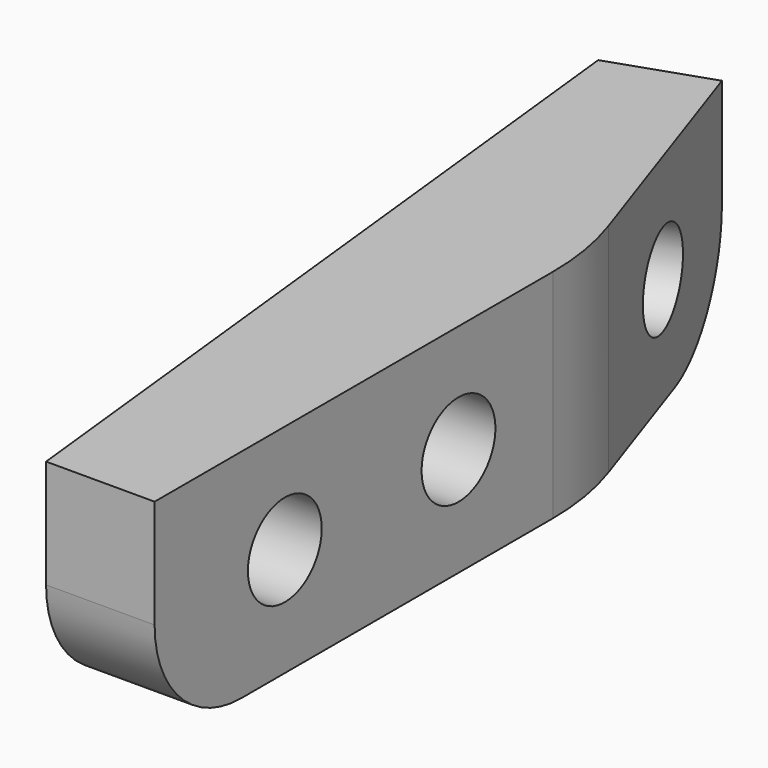
from build123d import *

# Parameters (mm, degrees)
F0_W     = 2
F0_H     = 10
F1_DEPTH = 4
F3_DEPTH = 1
F4_R     = 0.85
F5_DEPTH = 25
F6_R     = 0.85
F7_DEPTH = 25
F8_R     = 5
F9_R     = 5
F10_R    = 2


with BuildPart() as f1:
    # F0 (on Top) → F1 (new body)
    with BuildSketch(Plane.XY):
        Polygon((-14.343983, 1.605531), (-12.731962, -3.12748), (-10.731962, -3.12748), (-12.551871, 2.215907), align=None)
        with Locations((-11.731962, -8.12748)):
            Rectangle(F0_W, F0_H)
    extrude(amount=F1_DEPTH)

    # F2 (on face) → F3 (join)
    with BuildSketch(Plane.XY.offset(4)):
        Polygon((-12.731962, -3.12748), (-14.343983, 1.605531), (-12.731962, -13.12748), align=None)
    extrude(amount=-F3_DEPTH)

    # F4 (on face) → F5 (cut)
    with BuildSketch(Plane(origin=(-12.363017, -4.210731, 0), x_dir=(0.322404, -0.946602, 0), z_dir=(-0.946602, -0.322404, 0))):
        with Locations((-3.644357, 2)):
            Circle(F4_R)
    extrude(amount=-F5_DEPTH, mode=Mode.SUBTRACT)

    # F6 (on face) → F7 (cut)
    with BuildSketch(Plane(origin=(-12.731962, 0, 0), x_dir=(0, -1, 0), z_dir=(-1, 0, 0))):
        with Locations((6.12748, 2)):
            Circle(F6_R)
        with Locations((10.12748, 2)):
            Circle(F6_R)
    extrude(amount=-F7_DEPTH, mode=Mode.SUBTRACT)

    # F8
    f8_edges = [f1.edges().sort_by_distance(p)[0] for p in [
        (-12.731962, -3.12748, 1.5),
    ]]
    fillet(f8_edges, radius=F8_R)

    # F9
    f9_edges = [f1.edges().sort_by_distance(p)[0] for p in [
        (-10.731962, -3.12748, 2),
    ]]
    fillet(f9_edges, radius=F9_R)

    # F10
    f10_edges = [f1.edges().sort_by_distance(p)[0] for p in [
        (-11.731962, -13.12748, 0),
        (-13.447927, 1.910719, 0),
    ]]
    fillet(f10_edges, radius=F10_R)


solid = f1.part
